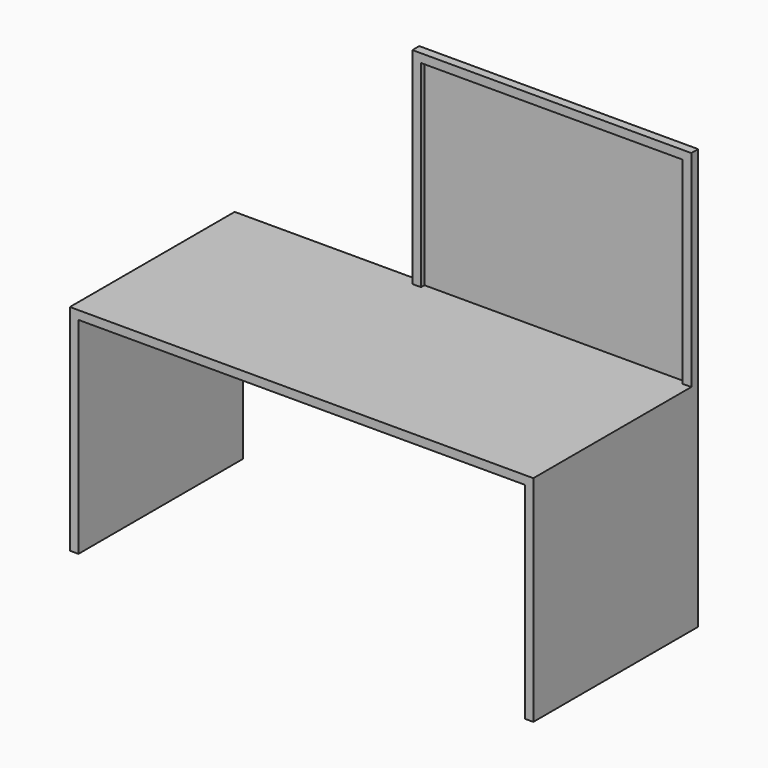
from build123d import *

# Parameters (mm, degrees)
F0_W     = 1371.6
F0_H     = 609.6
F1_DEPTH = 25.4
F2_W     = 609.6
F2_H     = 609.6
F3_DEPTH = 25.4
F4_W     = 609.6
F4_H     = 609.6
F5_DEPTH = 25.4
F6_W     = 825.246
F6_H     = 25.4
F7_DEPTH = 609.6
F8_W     = 774.446
F8_H     = 584.2
F9_DEPTH = 12.7


with BuildPart() as f1:
    # F0 (on Top) → F1 (new body)
    with BuildSketch(Plane.XY):
        with Locations((10.840505, -139.387438)):
            Rectangle(F0_W, F0_H)
    extrude(amount=F1_DEPTH)

    # F2 (on face) → F3 (join)
    with BuildSketch(Plane.YZ.offset(696.640505)):
        with Locations((-139.387438, -304.8)):
            Rectangle(F2_W, F2_H)
    extrude(amount=-F3_DEPTH)

    # F4 (on face) → F5 (join)
    with BuildSketch(Plane(origin=(-674.959495, 0, 0), x_dir=(0, -1, 0), z_dir=(-1, 0, 0))):
        with Locations((139.387438, -304.8)):
            Rectangle(F4_W, F4_H)
    extrude(amount=-F5_DEPTH)

    # F6 (on face) → F7 (join)
    with BuildSketch(Plane.XY.offset(25.4)):
        with Locations((284.017505, 152.712562)):
            Rectangle(F6_W, F6_H)
    extrude(amount=F7_DEPTH)

    # F8 (on face) → F9 (cut)
    with BuildSketch(Plane.XZ.offset(-140.012562)):
        with Locations((284.017505, 317.5)):
            Rectangle(F8_W, F8_H)
    extrude(amount=-F9_DEPTH, mode=Mode.SUBTRACT)


solid = f1.part
